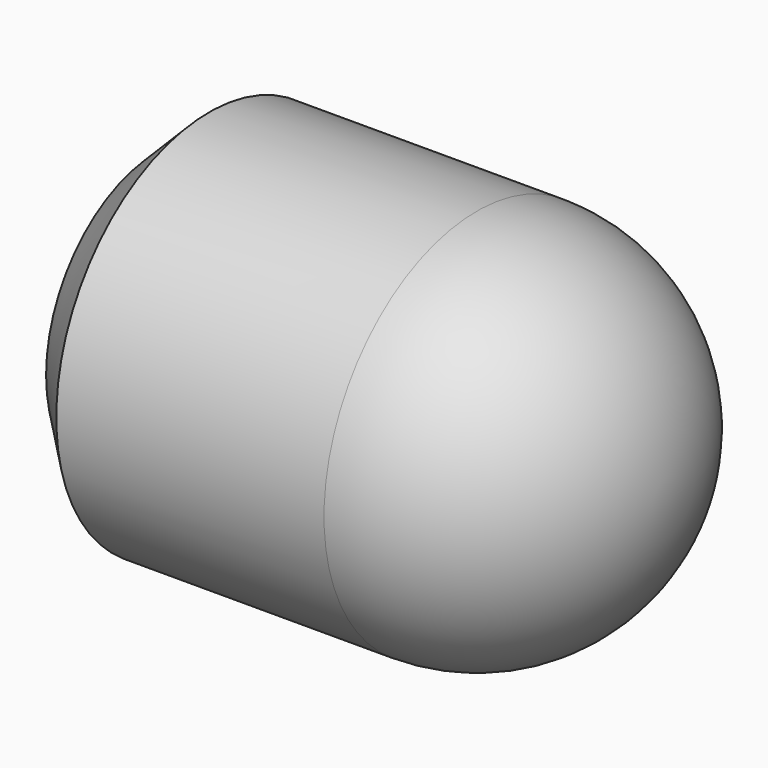
from build123d import *

# Parameters (mm, degrees)
F0_R     = 38.1
F1_DEPTH = 101.6
F2_R     = 38.1
F3_SIZE  = 10.16


with BuildPart() as f1:
    # F0 (on Right) → F1 (new body)
    with BuildSketch(Plane.YZ):
        Circle(F0_R)
    extrude(amount=F1_DEPTH)

    # F2
    f2_edges = [f1.edges().sort_by_distance(p)[0] for p in [
        (101.6, -38.1, 0),
    ]]
    fillet(f2_edges, radius=F2_R)

    # F3
    f3_edges = [f1.edges().sort_by_distance(p)[0] for p in [
        (0, -38.1, 0),
    ]]
    chamfer(f3_edges, length=F3_SIZE)


solid = f1.part
